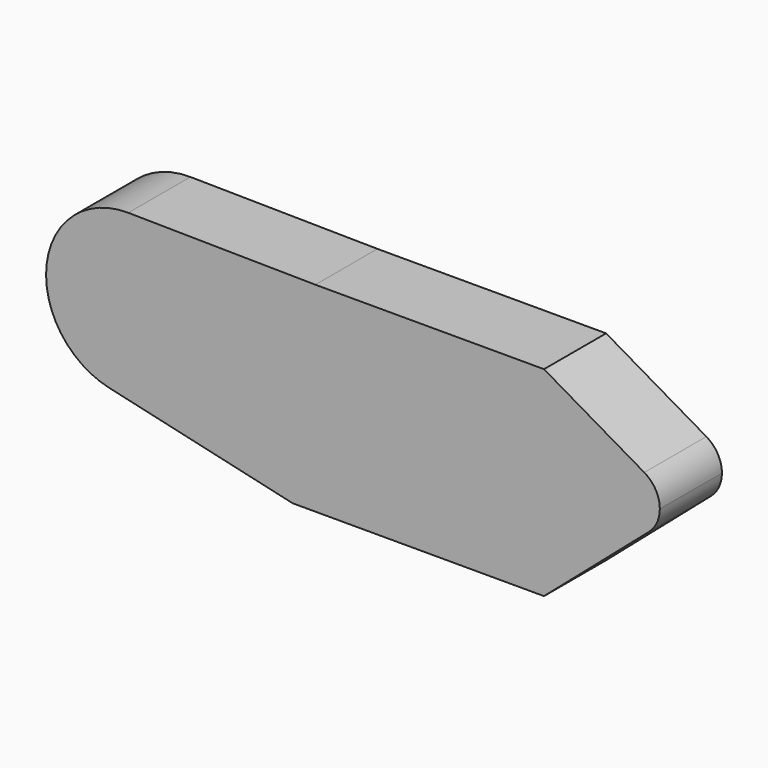
from build123d import *

# Parameters (mm, degrees)
F1_DEPTH = 25.4


with BuildPart() as f1:
    # F0 (on Front) → F1 (new body)
    with BuildSketch(Plane.XZ):
        with BuildLine():
            ThreePointArc((-113.665045, -18.445694), (-91.184621, -13.32064), (-81.178721, 7.452363))
            ThreePointArc((-81.178721, 7.452363), (-88.835816, 26.112679), (-107.393124, 34.016147))
            ThreePointArc((-107.393124, 34.016147), (-134.123105, 10.60594), (-113.665045, -18.445694))
        make_face()
        with BuildLine():
            ThreePointArc((-107.393124, 34.016147), (-88.835816, 26.112679), (-81.178721, 7.452363))
            ThreePointArc((-81.178721, 7.452363), (-91.184621, -13.32064), (-113.665045, -18.445694))
            Line((-113.665045, -18.445694), (-53.619757, -32.171853))
            Line((-53.619757, -32.171853), (-53.619757, 33.205918))
            Line((-53.619757, 33.205918), (-46.198466, 33.205918))
            Line((-46.198466, 33.205918), (-107.393124, 34.016147))
        make_face()
        Polygon((28.628288, 33.205918), (-46.198466, 33.205918), (-53.619757, 33.205918), (-53.619757, -32.171853), (28.628288, -32.171853), align=None)
        with BuildLine():
            Line((61.43455, 14.125688), (28.628288, 33.205918))
            Line((28.628288, 33.205918), (28.628288, -32.171853))
            Line((28.628288, -32.171853), (62.983333, -2.468457))
            ThreePointArc((62.983333, -2.468457), (46.094147, 4.324571), (61.43455, 14.125688))
        make_face()
        with BuildLine():
            ThreePointArc((66.525181, 5.27595), (65.161731, 10.380663), (61.43455, 14.125688))
            ThreePointArc((61.43455, 14.125688), (46.094147, 4.324571), (62.983333, -2.468457))
            ThreePointArc((62.983333, -2.468457), (65.597707, 1.018), (66.525181, 5.27595))
        make_face()
    extrude(amount=F1_DEPTH)


solid = f1.part
